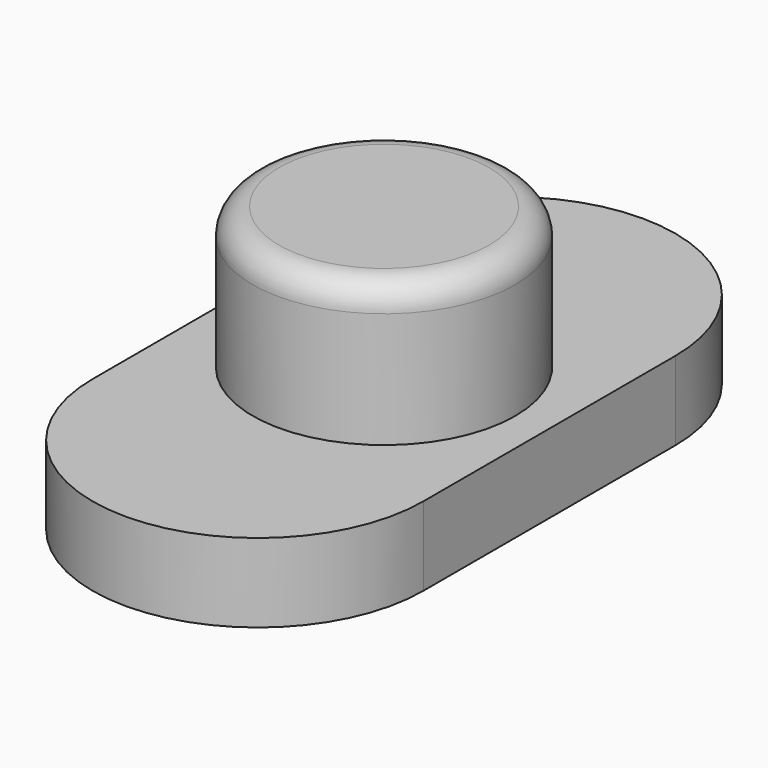
from build123d import *

# Parameters (mm, degrees)
F0_R     = 2.5
F0_W     = 2.5
F0_H     = 3
F1_DEPTH = 1.5
F2_DEPTH = 4.2
F3_DEPTH = 2.5
F4_R     = 0.5


with BuildPart() as f1:
    # F0 (on Top) → F1 (new body)
    with BuildSketch(Plane.XY):
        with BuildLine():
            Line((-3.15, 3), (-3.15, -3))
            ThreePointArc((-3.15, -3), (0, -6.15), (3.15, -3))
            Line((3.15, -3), (3.15, 3))
            ThreePointArc((3.15, 3), (0, 6.15), (-3.15, 3))
        make_face()
        Circle(F0_R, mode=Mode.SUBTRACT)
        Circle(F0_R)
        Rectangle(F0_W, F0_H, mode=Mode.SUBTRACT)
        Rectangle(F0_W, F0_H)
    extrude(amount=F1_DEPTH)

    # F0 (on Top) → F2 (join)
    with BuildSketch(Plane.XY):
        Circle(F0_R)
        Rectangle(F0_W, F0_H, mode=Mode.SUBTRACT)
        Rectangle(F0_W, F0_H)
    extrude(amount=F2_DEPTH)

    # F0 (on Top) → F3 (cut)
    with BuildSketch(Plane.XY):
        Rectangle(F0_W, F0_H)
    extrude(amount=F3_DEPTH, mode=Mode.SUBTRACT)

    # F4
    f4_edges = [f1.edges().sort_by_distance(p)[0] for p in [
        (-2.5, 0, 4.2),
    ]]
    fillet(f4_edges, radius=F4_R)


solid = f1.part
